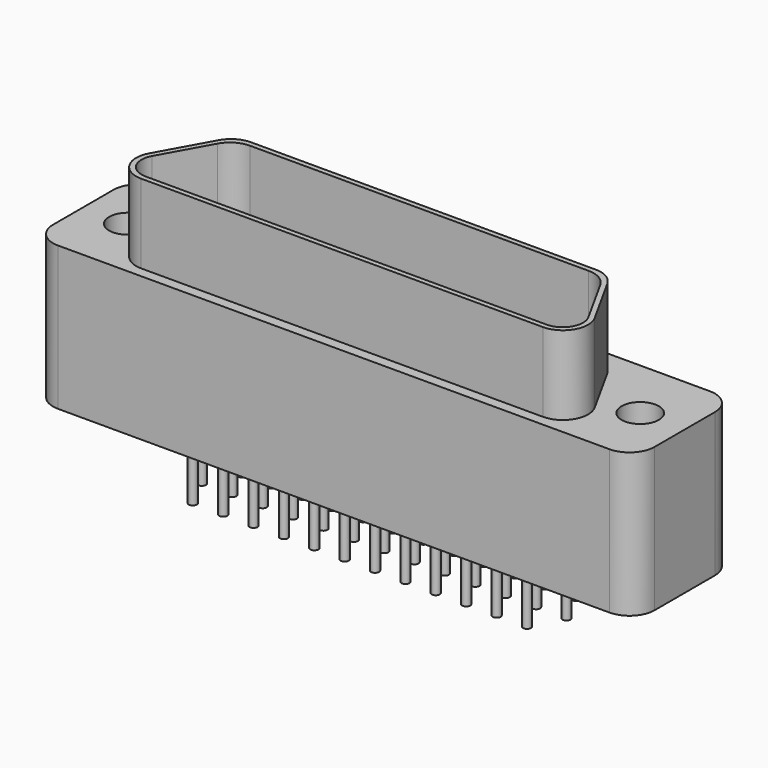
from build123d import *

# Parameters (mm, degrees)
F0_R     = 1.1684
F1_DEPTH = 4.5085
F3_DEPTH = 4.953
F5_DEPTH = 4.4069
F6_R     = 0.254
F7_DEPTH = 3.81


with BuildPart() as f1:
    # F0 (on Top) → F1 (new body, symmetric)
    with BuildSketch(Plane.XY):
        with BuildLine():
            Line((17.2847, 3.937), (-17.2847, 3.937))
            ThreePointArc((-17.2847, 3.937), (-18.398252, 3.475752), (-18.8595, 2.3622))
            Line((-18.8595, 2.3622), (-18.8595, -2.3622))
            ThreePointArc((-18.8595, -2.3622), (-18.398252, -3.475752), (-17.2847, -3.937))
            Line((-17.2847, -3.937), (17.2847, -3.937))
            ThreePointArc((17.2847, -3.937), (18.398252, -3.475752), (18.8595, -2.3622))
            Line((18.8595, -2.3622), (18.8595, 2.3622))
            ThreePointArc((18.8595, 2.3622), (18.398252, 3.475752), (17.2847, 3.937))
        make_face()
        with Locations((-16.0655, 0)):
            Circle(F0_R, mode=Mode.SUBTRACT)
        with Locations((16.0655, 0)):
            Circle(F0_R, mode=Mode.SUBTRACT)
    extrude(amount=F1_DEPTH, both=True)

    # F2 (on face) → F3 (join)
    with BuildSketch(Plane.XY.offset(4.5085)):
        with BuildLine():
            Line((-12.59192, -3.2893), (12.593378, -3.2893))
            ThreePointArc((12.593378, -3.2893), (13.950271, -2.513771), (13.970729, -0.951022))
            Line((13.970729, -0.951022), (12.182639, 2.274778))
            ThreePointArc((12.182639, 2.274778), (11.604559, 2.868194), (10.805288, 3.0861))
            Line((10.805288, 3.0861), (-10.80383, 3.0861))
            ThreePointArc((-10.80383, 3.0861), (-11.603101, 2.868194), (-12.181181, 2.274778))
            Line((-12.181181, 2.274778), (-13.969271, -0.951022))
            ThreePointArc((-13.969271, -0.951022), (-13.948814, -2.513771), (-12.59192, -3.2893))
        make_face()
    extrude(amount=F3_DEPTH)

    # F4 (on face) → F5 (cut)
    with BuildSketch(Plane.XY.offset(9.4615)):
        with BuildLine():
            Line((10.618266, 2.7686), (-10.616808, 2.7686))
            ThreePointArc((-10.616808, 2.7686), (-11.41608, 2.550694), (-11.994159, 1.957278))
            Line((-11.994159, 1.957278), (-13.681127, -1.086092))
            ThreePointArc((-13.681127, -1.086092), (-13.664629, -2.346374), (-12.57036, -2.9718))
            Line((-12.57036, -2.9718), (12.571817, -2.9718))
            ThreePointArc((12.571817, -2.9718), (13.666086, -2.346374), (13.682584, -1.086092))
            Line((13.682584, -1.086092), (11.995617, 1.957278))
            ThreePointArc((11.995617, 1.957278), (11.417537, 2.550694), (10.618266, 2.7686))
        make_face()
    extrude(amount=-F5_DEPTH, mode=Mode.SUBTRACT)

    # F6 (on face) → F7 (join)
    with BuildSketch(Plane(origin=(0, 0, -4.5085), x_dir=(1, 0, 0), z_dir=(0, 0, -1))):
        with Locations((-10.4648, 1.905)):
            Circle(F6_R)
        with Locations((-8.5598, 1.905)):
            Circle(F6_R)
        with Locations((-6.6548, 1.905)):
            Circle(F6_R)
        with Locations((-4.7498, 1.905)):
            Circle(F6_R)
        with Locations((-2.8448, 1.905)):
            Circle(F6_R)
        with Locations((-0.9398, 1.905)):
            Circle(F6_R)
        with Locations((0.9652, 1.905)):
            Circle(F6_R)
        with Locations((2.8702, 1.905)):
            Circle(F6_R)
        with Locations((4.7752, 1.905)):
            Circle(F6_R)
        with Locations((6.6802, 1.905)):
            Circle(F6_R)
        with Locations((8.5852, 1.905)):
            Circle(F6_R)
        with Locations((10.4902, 1.905)):
            Circle(F6_R)
        with Locations((-11.4173, 0)):
            Circle(F6_R)
        with Locations((-9.5123, 0)):
            Circle(F6_R)
        with Locations((-7.6073, 0)):
            Circle(F6_R)
        with Locations((-5.7023, 0)):
            Circle(F6_R)
        with Locations((-3.7973, 0)):
            Circle(F6_R)
        with Locations((-1.8923, 0)):
            Circle(F6_R)
        with Locations((-10.4648, -1.905)):
            Circle(F6_R)
        with Locations((-8.5598, -1.905)):
            Circle(F6_R)
        with Locations((-6.6548, -1.905)):
            Circle(F6_R)
        with Locations((-4.7498, -1.905)):
            Circle(F6_R)
        with Locations((-2.8448, -1.905)):
            Circle(F6_R)
        with Locations((-0.9398, -1.905)):
            Circle(F6_R)
        with Locations((0.0127, 0)):
            Circle(F6_R)
        with Locations((1.9177, 0)):
            Circle(F6_R)
        with Locations((3.8227, 0)):
            Circle(F6_R)
        with Locations((5.7277, 0)):
            Circle(F6_R)
        with Locations((7.6327, 0)):
            Circle(F6_R)
        with Locations((9.5377, 0)):
            Circle(F6_R)
        with Locations((11.4427, 0)):
            Circle(F6_R)
        with Locations((0.9652, -1.905)):
            Circle(F6_R)
        with Locations((2.8702, -1.905)):
            Circle(F6_R)
        with Locations((4.7752, -1.905)):
            Circle(F6_R)
        with Locations((6.6802, -1.905)):
            Circle(F6_R)
        with Locations((8.5852, -1.905)):
            Circle(F6_R)
        with Locations((10.4902, -1.905)):
            Circle(F6_R)
    extrude(amount=F7_DEPTH)


solid = f1.part
